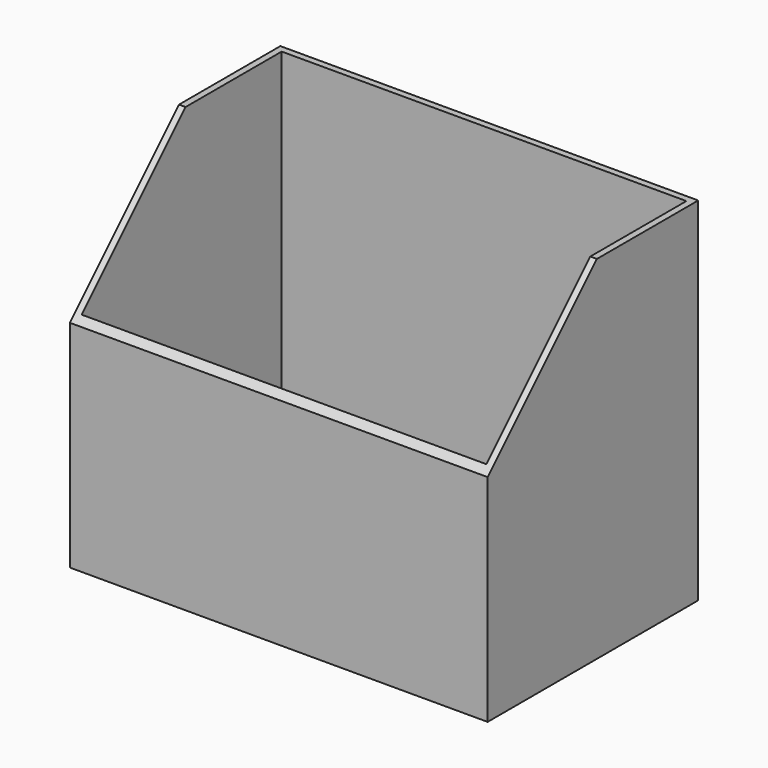
from build123d import *

# Parameters (mm, degrees)
SKETCH014_W          = 127
SKETCH014_H          = 80
PAD010_DEPTH         = 2
SKETCH015_W          = 127
SKETCH015_H          = 80
SKETCH015_W_2        = 123
SKETCH015_H_2        = 76
PAD011_DEPTH         = 105
POCKET002_DEPTH      = 127.001
POCKET002_DEPTH_BACK = 0.001


with BuildPart() as part:
    # Sketch014 → Pad010 (new body)
    with BuildSketch(Plane.XY.offset(-61.5)):
        with Locations((0, -36)):
            Rectangle(SKETCH014_W, SKETCH014_H)
    extrude(amount=PAD010_DEPTH)

    # Sketch015 (on Face6 of Pad010) → Pad011 (join)
    with BuildSketch(Plane.XY.offset(-59.5)):
        with Locations((0, -36)):
            Rectangle(SKETCH015_W, SKETCH015_H)
        with Locations((0, -36)):
            Rectangle(SKETCH015_W_2, SKETCH015_H_2, mode=Mode.SUBTRACT)
    extrude(amount=PAD011_DEPTH)

    # Sketch016 (on Face8 of Pad011) → Pocket002 (cut, two sides)
    with BuildSketch(Plane.YZ.offset(63.5)) as pocket002_sk:
        Polygon((-34.5, 45.5), (-76, 4), (-76, 45.5), align=None)
    extrude(amount=-POCKET002_DEPTH, mode=Mode.SUBTRACT)
    extrude(pocket002_sk.sketch, amount=POCKET002_DEPTH_BACK, mode=Mode.SUBTRACT)


solid = part.part
